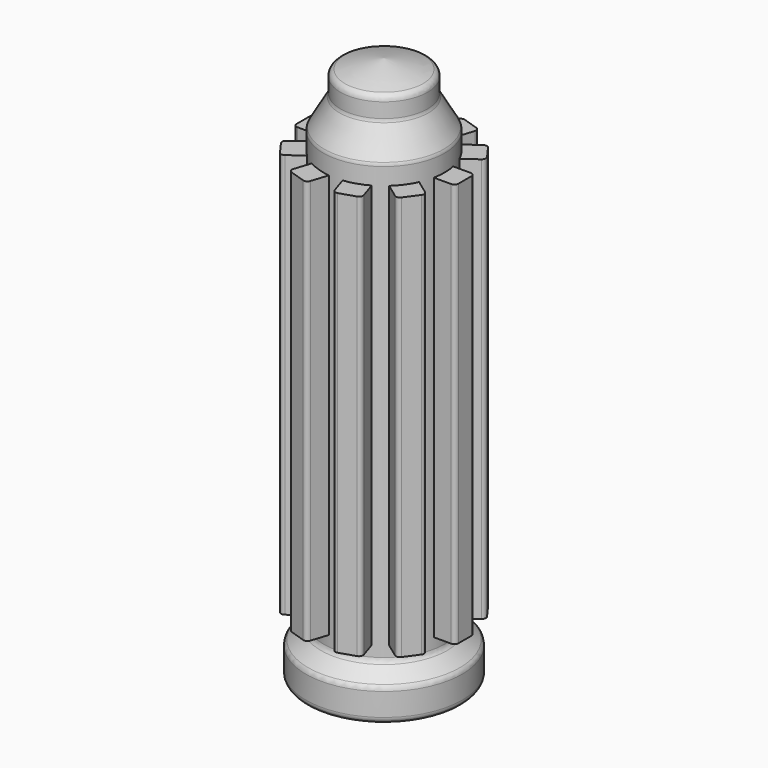
from build123d import *

# Parameters (mm, degrees)
F2_R     = 1.6
F4_W     = 6
F4_H     = 100
F6_R     = 1
F7_COUNT = 10


with BuildPart() as f1:
    # F0 (on Front) → F1 (revolve)
    with BuildSketch(Plane.XZ):
        with BuildLine():
            Line((10.75, 125), (10.75, 0))
            Line((10.75, 0), (19.325, 0))
            Line((19.325, 0), (19.325, 8))
            Line((19.325, 8), (15, 11.6291059048))
            Line((15, 11.6291059048), (15, 119.6387840678))
            Line((15, 119.6387840678), (10.75, 127))
            Line((10.75, 127), (10.75, 132.2207897902))
            ThreePointArc((10.75, 132.2207897902), (5.4318205976, 133.8301772712), (0, 135))
            Line((0, 135), (0, 125))
            Line((0, 125), (10.75, 125))
        make_face()
    revolve(axis=Axis((0, 0, 130), (0, 0, 1)))

    # F2
    f2_edges = [f1.edges().sort_by_distance(p)[0] for p in [
        (-15, 0, 119.638784),
        (-10.75, 0, 127),
        (-10.75, 0, 132.22079),
        (-19.325, 0, 8),
        (-19.325, 0, 0),
        (-15, 0, 11.629106),
    ]]
    fillet(f2_edges, radius=F2_R)


with BuildPart() as f5:
    # F4 (on offset) → F5 (new body, up to the next surface of F1)
    with BuildSketch(Plane.YZ.offset(20)):
        with Locations((0, 65)):
            Rectangle(F4_W, F4_H)
    extrude(until=Until.NEXT, target=f1.part, dir=(-1, 0, 0))

    # F6
    f6_edges = [f5.edges().sort_by_distance(p)[0] for p in [
        (20, -3, 65),
        (20, 3, 65),
    ]]
    fillet(f6_edges, radius=F6_R)


with BuildPart() as f7_1:
    # F7: instance of F5
    add(f5.part.rotate(Axis((0, 0, 11.6291059048), (0, 0, 1)), 1 * 360 / F7_COUNT))


with BuildPart() as f7_2:
    # F7: instance of F5
    add(f5.part.rotate(Axis((0, 0, 11.6291059048), (0, 0, 1)), 2 * 360 / F7_COUNT))


with BuildPart() as f7_3:
    # F7: instance of F5
    add(f5.part.rotate(Axis((0, 0, 11.6291059048), (0, 0, 1)), 3 * 360 / F7_COUNT))


with BuildPart() as f7_4:
    # F7: instance of F5
    add(f5.part.rotate(Axis((0, 0, 11.6291059048), (0, 0, 1)), 4 * 360 / F7_COUNT))


with BuildPart() as f7_5:
    # F7: instance of F5
    add(f5.part.rotate(Axis((0, 0, 11.6291059048), (0, 0, 1)), 5 * 360 / F7_COUNT))


with BuildPart() as f7_6:
    # F7: instance of F5
    add(f5.part.rotate(Axis((0, 0, 11.6291059048), (0, 0, 1)), 6 * 360 / F7_COUNT))


with BuildPart() as f7_7:
    # F7: instance of F5
    add(f5.part.rotate(Axis((0, 0, 11.6291059048), (0, 0, 1)), 7 * 360 / F7_COUNT))


with BuildPart() as f7_8:
    # F7: instance of F5
    add(f5.part.rotate(Axis((0, 0, 11.6291059048), (0, 0, 1)), 8 * 360 / F7_COUNT))


with BuildPart() as f7_9:
    # F7: instance of F5
    add(f5.part.rotate(Axis((0, 0, 11.6291059048), (0, 0, 1)), 9 * 360 / F7_COUNT))


solid = Compound([f1.part, f5.part, f7_1.part, f7_2.part, f7_3.part, f7_4.part, f7_5.part, f7_6.part, f7_7.part, f7_8.part, f7_9.part])
